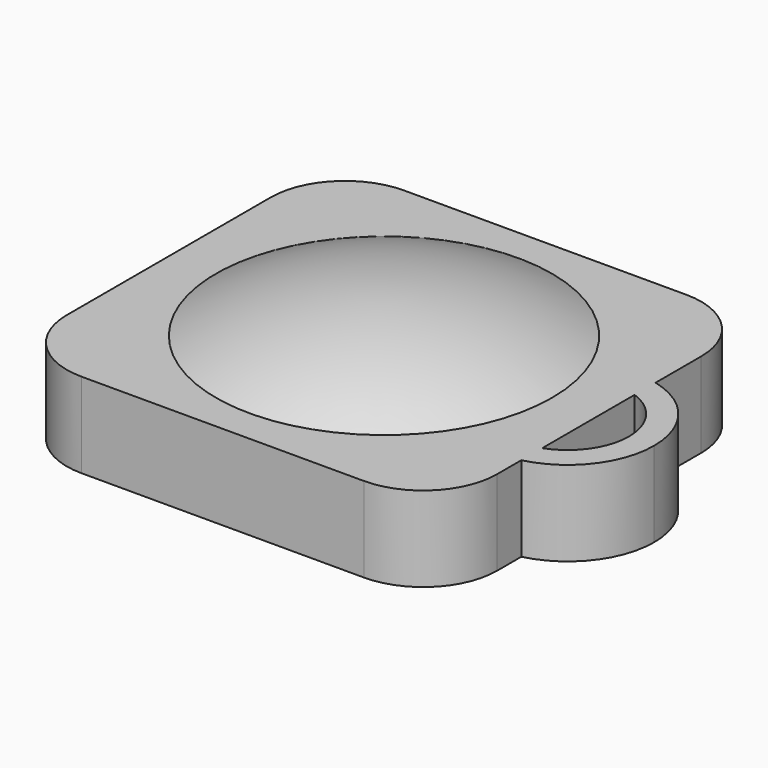
from build123d import *

# Parameters (mm, degrees)
F1_DEPTH = 6
F4_T     = 1.8
F6_DEPTH = 7.8


with BuildPart() as f1:
    # F0 (on Top) → F1 (new body)
    with BuildSketch(Plane.XY):
        with BuildLine():
            Line((12.95, 16.7), (-12.95, 16.7))
            ThreePointArc((-12.95, 16.7), (-16.4855339059, 15.2355339059), (-17.95, 11.7))
            Line((-17.95, 11.7), (-17.95, -11.7))
            ThreePointArc((-17.95, -11.7), (-16.4855339059, -15.2355339059), (-12.95, -16.7))
            Line((-12.95, -16.7), (12.95, -16.7))
            ThreePointArc((12.95, -16.7), (16.4855339059, -15.2355339059), (17.95, -11.7))
            Line((17.95, -11.7), (17.95, 11.7))
            ThreePointArc((17.95, 11.7), (16.4855339059, 15.2355339059), (12.95, 16.7))
        make_face()
    extrude(amount=F1_DEPTH)

    # F2 (on Front) → F3 (revolve)
    with BuildSketch(Plane.XZ):
        with BuildLine():
            Line((0, 9.8057864234), (0, 6))
            Line((0, 6), (12.95, 6))
            Line((12.95, 6), (14.9687874717, 6))
            ThreePointArc((14.9687874717, 6), (7.7225094476, 8.8394416898), (0, 9.8057864234))
        make_face()
    revolve(axis=Axis((0, 0, 7.9028932117), (0, 0, 1)))

    # F4
    f4_openings = [f1.faces().sort_by_distance(p)[0] for p in [
        (0, 0, 0),
    ]]
    offset(amount=F4_T, openings=f4_openings, kind=Kind.INTERSECTION)

    # F5 (on face) → F6 (join, through all)
    with BuildSketch(Plane.XY.offset(7.8)):
        with BuildLine():
            ThreePointArc((19.75, 4.0565560225), (22.4501669969, 1.9970193201), (23.4744745018, -1.2407866307))
            ThreePointArc((23.4744745018, -1.2407866307), (22.4501669969, -4.4785925814), (19.75, -6.5381292838))
            Line((19.75, -6.5381292838), (19.75, -8.942287067))
            ThreePointArc((19.75, -8.942287067), (24.0922338374, -6.1310158755), (25.7786200161, -1.2407866307))
            ThreePointArc((25.7786200161, -1.2407866307), (24.0922338374, 3.6494426142), (19.75, 6.4607138057))
            Line((19.75, 6.4607138057), (19.75, 4.0565560225))
        make_face()
    extrude(amount=-F6_DEPTH)


solid = f1.part
